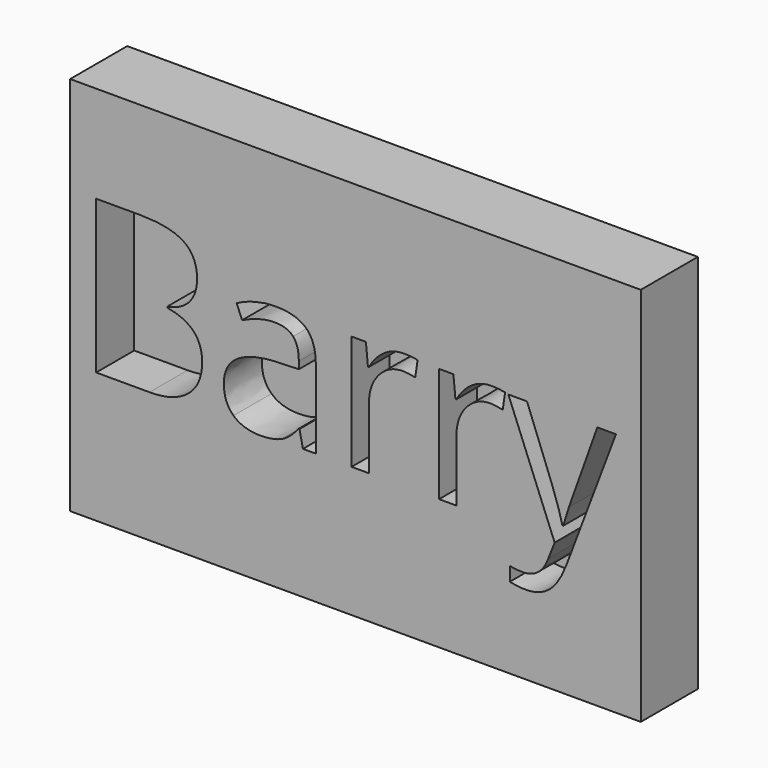
from build123d import *

# Parameters (mm, degrees)
F0_W     = 152.4
F0_H     = 101.6
F1_DEPTH = 6.35
F2_W     = 152.4
F2_H     = 101.6
F3_DEPTH = 12.7


with BuildPart() as f1:
    # F0 (on Front) → F1 (new body)
    with BuildSketch(Plane.XZ):
        with Locations((-73.2831337214, 78.9085992667)):
            Rectangle(F0_W, F0_H)
    extrude(amount=F1_DEPTH)

    # F2 (on face) → F3 (join)
    with BuildSketch(Plane.XZ.offset(6.35)):
        with Locations((-73.2831337214, 78.9085992667)):
            Rectangle(F2_W, F2_H)
        with BuildLine():
            Line((-83.8709204292, 62.9637678441), (-87.3141177383, 62.9637678441))
            Line((-87.3141177383, 62.9637678441), (-88.2352848107, 67.3281322256))
            Line((-88.2352848107, 67.3281322256), (-88.4588690515, 67.3281322256))
            add(Edge.make_bspline(
                [(-88.4588690515, 67.3281322256), (-90.7483716779, 64.4483672034), (-93.0244592498, 63.4243513802)],
                knots=[0, 0, 0, 1, 1, 1], degree=2))
            add(Edge.make_bspline(
                [(-93.0244592498, 63.4243513802), (-95.3005468216, 62.4003355571), (-98.7169140219, 62.4003355571)],
                knots=[0, 0, 0, 1, 1, 1], degree=2))
            add(Edge.make_bspline(
                [(-98.7169140219, 62.4003355571), (-103.2690891657, 62.4003355571), (-105.85372299, 64.7524417709)],
                knots=[0, 0, 0, 1, 1, 1], degree=2))
            add(Edge.make_bspline(
                [(-105.85372299, 64.7524417709), (-108.4383568142, 67.1045479847), (-108.4383568142, 71.4331388876)],
                knots=[0, 0, 0, 1, 1, 1], degree=2))
            add(Edge.make_bspline(
                [(-108.4383568142, 71.4331388876), (-108.4383568142, 80.7074131983), (-93.6013065912, 81.15458168)],
                knots=[0, 0, 0, 1, 1, 1], degree=2))
            Line((-93.6013065912, 81.15458168), (-88.4052088337, 81.324505703))
            Line((-88.4052088337, 81.324505703), (-88.4052088337, 83.2294434351))
            add(Edge.make_bspline(
                [(-88.4052088337, 83.2294434351), (-88.4052088337, 86.8336213977), (-89.9524117804, 88.5507483674)],
                knots=[0, 0, 0, 1, 1, 1], degree=2))
            add(Edge.make_bspline(
                [(-89.9524117804, 88.5507483674), (-91.4996147271, 90.2678753372), (-94.9159819274, 90.2678753372)],
                knots=[0, 0, 0, 1, 1, 1], degree=2))
            add(Edge.make_bspline(
                [(-94.9159819274, 90.2678753372), (-98.7437441308, 90.2678753372), (-103.5731637332, 87.924712493)],
                knots=[0, 0, 0, 1, 1, 1], degree=2))
            Line((-103.5731637332, 87.924712493), (-105.0041028747, 91.4752302378))
            add(Edge.make_bspline(
                [(-105.0041028747, 91.4752302378), (-102.7414303573, 92.7004718777), (-100.0450044126, 93.3980547091)],
                knots=[0, 0, 0, 1, 1, 1], degree=2))
            add(Edge.make_bspline(
                [(-100.0450044126, 93.3980547091), (-97.3485784679, 94.0956375406), (-94.6297940991, 94.0956375406)],
                knots=[0, 0, 0, 1, 1, 1], degree=2))
            add(Edge.make_bspline(
                [(-94.6297940991, 94.0956375406), (-89.156451883, 94.0956375406), (-86.5136861561, 91.6675126849)],
                knots=[0, 0, 0, 1, 1, 1], degree=2))
            add(Edge.make_bspline(
                [(-86.5136861561, 91.6675126849), (-83.8709204292, 89.2393878293), (-83.8709204292, 83.8733660488)],
                knots=[0, 0, 0, 1, 1, 1], degree=2))
            Line((-83.8709204292, 83.8733660488), (-83.8709204292, 62.9637678441))
        make_face(mode=Mode.SUBTRACT)
        with BuildLine():
            add(Edge.make_bspline(
                [(-65.6264463755, 92.5350195394), (-63.2206799439, 94.158241128), (-60.3409149217, 94.158241128)],
                knots=[0, 0, 0, 1, 1, 1], degree=2))
            add(Edge.make_bspline(
                [(-60.3409149217, 94.158241128), (-58.3018266451, 94.158241128), (-56.6830767413, 93.818393082)],
                knots=[0, 0, 0, 1, 1, 1], degree=2))
            Line((-56.6830767413, 93.818393082), (-57.326999355, 89.5166322879))
            add(Edge.make_bspline(
                [(-57.326999355, 89.5166322879), (-59.2229937174, 89.9369706607), (-60.6807629678, 89.9369706607)],
                knots=[0, 0, 0, 1, 1, 1], degree=2))
            add(Edge.make_bspline(
                [(-60.6807629678, 89.9369706607), (-64.4012047356, 89.9369706607), (-67.0394987777, 86.9185834092)],
                knots=[0, 0, 0, 1, 1, 1], degree=2))
            add(Edge.make_bspline(
                [(-67.0394987777, 86.9185834092), (-69.6777928198, 83.9001961577), (-69.6777928198, 79.4016812317)],
                knots=[0, 0, 0, 1, 1, 1], degree=2))
            Line((-69.6777928198, 79.4016812317), (-69.6777928198, 62.9637678441))
            Line((-69.6777928198, 62.9637678441), (-74.3194016599, 62.9637678441))
            Line((-74.3194016599, 62.9637678441), (-74.3194016599, 93.5948088411))
            Line((-74.3194016599, 93.5948088411), (-70.4916394565, 93.5948088411))
            Line((-70.4916394565, 93.5948088411), (-69.9550372784, 87.924712493))
            Line((-69.9550372784, 87.924712493), (-69.7314530376, 87.924712493))
            add(Edge.make_bspline(
                [(-69.7314530376, 87.924712493), (-68.0322128071, 90.9117979508), (-65.6264463755, 92.5350195394)],
                knots=[0, 0, 0, 1, 1, 1], degree=2))
        make_face(mode=Mode.SUBTRACT)
        with BuildLine():
            add(Edge.make_bspline(
                [(-42.2574215214, 92.5350195394), (-39.8516550898, 94.158241128), (-36.9718900676, 94.158241128)],
                knots=[0, 0, 0, 1, 1, 1], degree=2))
            add(Edge.make_bspline(
                [(-36.9718900676, 94.158241128), (-34.932801791, 94.158241128), (-33.3140518873, 93.818393082)],
                knots=[0, 0, 0, 1, 1, 1], degree=2))
            Line((-33.3140518873, 93.818393082), (-33.9579745009, 89.5166322879))
            add(Edge.make_bspline(
                [(-33.9579745009, 89.5166322879), (-35.8539688634, 89.9369706607), (-37.3117381137, 89.9369706607)],
                knots=[0, 0, 0, 1, 1, 1], degree=2))
            add(Edge.make_bspline(
                [(-37.3117381137, 89.9369706607), (-41.0321798815, 89.9369706607), (-43.6704739236, 86.9185834092)],
                knots=[0, 0, 0, 1, 1, 1], degree=2))
            add(Edge.make_bspline(
                [(-43.6704739236, 86.9185834092), (-46.3087679657, 83.9001961577), (-46.3087679657, 79.4016812317)],
                knots=[0, 0, 0, 1, 1, 1], degree=2))
            Line((-46.3087679657, 79.4016812317), (-46.3087679657, 62.9637678441))
            Line((-46.3087679657, 62.9637678441), (-50.9503768058, 62.9637678441))
            Line((-50.9503768058, 62.9637678441), (-50.9503768058, 93.5948088411))
            Line((-50.9503768058, 93.5948088411), (-47.1226146024, 93.5948088411))
            Line((-47.1226146024, 93.5948088411), (-46.5860124244, 87.924712493))
            Line((-46.5860124244, 87.924712493), (-46.3624281835, 87.924712493))
            add(Edge.make_bspline(
                [(-46.3624281835, 87.924712493), (-44.663187953, 90.9117979508), (-42.2574215214, 92.5350195394)],
                knots=[0, 0, 0, 1, 1, 1], degree=2))
        make_face(mode=Mode.SUBTRACT)
        with BuildLine():
            Line((-20.0868081983, 62.793843821), (-32.4465450327, 93.5948088411))
            Line((-32.4465450327, 93.5948088411), (-27.4650881465, 93.5948088411))
            Line((-27.4650881465, 93.5948088411), (-20.7575609209, 76.1284079456))
            add(Edge.make_bspline(
                [(-20.7575609209, 76.1284079456), (-18.5574919909, 70.1452936603), (-18.0208898128, 67.489112879)],
                knots=[0, 0, 0, 1, 1, 1], degree=2))
            Line((-18.0208898128, 67.489112879), (-17.797305572, 67.489112879))
            add(Edge.make_bspline(
                [(-17.797305572, 67.489112879), (-17.4395707866, 68.9200520204), (-16.2769327342, 72.3721926992)],
                knots=[0, 0, 0, 1, 1, 1], degree=2))
            add(Edge.make_bspline(
                [(-16.2769327342, 72.3721926992), (-15.1142946817, 75.824333378), (-8.6840119148, 93.5948088411)],
                knots=[0, 0, 0, 1, 1, 1], degree=2))
            Line((-8.6840119148, 93.5948088411), (-3.7114983982, 93.5948088411))
            Line((-3.7114983982, 93.5948088411), (-16.8761384997, 58.7156672679))
            add(Edge.make_bspline(
                [(-16.8761384997, 58.7156672679), (-18.8347364495, 53.5463996193), (-21.4462003827, 51.377632483)],
                knots=[0, 0, 0, 1, 1, 1], degree=2))
            add(Edge.make_bspline(
                [(-21.4462003827, 51.377632483), (-24.0576643159, 49.2088653467), (-27.8585964104, 49.2088653467)],
                knots=[0, 0, 0, 1, 1, 1], degree=2))
            add(Edge.make_bspline(
                [(-27.8585964104, 49.2088653467), (-29.9871183834, 49.2088653467), (-32.0530367688, 49.691807307)],
                knots=[0, 0, 0, 1, 1, 1], degree=2))
            Line((-32.0530367688, 49.691807307), (-32.0530367688, 53.4033057052))
            add(Edge.make_bspline(
                [(-32.0530367688, 53.4033057052), (-30.5147771918, 53.0724010287), (-28.6187828293, 53.0724010287)],
                knots=[0, 0, 0, 1, 1, 1], degree=2))
            add(Edge.make_bspline(
                [(-28.6187828293, 53.0724010287), (-23.834080075, 53.0724010287), (-21.7949917985, 58.4384228092)],
                knots=[0, 0, 0, 1, 1, 1], degree=2))
            Line((-21.7949917985, 58.4384228092), (-20.0868081983, 62.793843821))
        make_face(mode=Mode.SUBTRACT)
        with BuildLine():
            Line((-142.5394252293, 62.9637678441), (-142.5394252293, 103.8260237026))
            Line((-142.5394252293, 103.8260237026), (-130.9935350316, 103.8260237026))
            add(Edge.make_bspline(
                [(-130.9935350316, 103.8260237026), (-122.8640120341, 103.8260237026), (-119.2285322779, 101.3934271621)],
                knots=[0, 0, 0, 1, 1, 1], degree=2))
            add(Edge.make_bspline(
                [(-119.2285322779, 101.3934271621), (-115.5930525216, 98.9608306216), (-115.5930525216, 93.7110726463)],
                knots=[0, 0, 0, 1, 1, 1], degree=2))
            add(Edge.make_bspline(
                [(-115.5930525216, 93.7110726463), (-115.5930525216, 90.0711212052), (-117.6187257437, 87.7100716218)],
                knots=[0, 0, 0, 1, 1, 1], degree=2))
            add(Edge.make_bspline(
                [(-117.6187257437, 87.7100716218), (-119.6443989658, 85.3490220384), (-123.5347647567, 84.6514392069)],
                knots=[0, 0, 0, 1, 1, 1], degree=2))
            Line((-123.5347647567, 84.6514392069), (-123.5347647567, 84.3741947483))
            add(Edge.make_bspline(
                [(-123.5347647567, 84.3741947483), (-114.2247169675, 82.7822749534), (-114.2247169675, 74.5901483685)],
                knots=[0, 0, 0, 1, 1, 1], degree=2))
            add(Edge.make_bspline(
                [(-114.2247169675, 74.5901483685), (-114.2247169675, 69.1168061524), (-117.9272719961, 66.0402869982)],
                knots=[0, 0, 0, 1, 1, 1], degree=2))
            add(Edge.make_bspline(
                [(-117.9272719961, 66.0402869982), (-121.6298270246, 62.9637678441), (-128.2836940324, 62.9637678441)],
                knots=[0, 0, 0, 1, 1, 1], degree=2))
            Line((-128.2836940324, 62.9637678441), (-142.5394252293, 62.9637678441))
        make_face(mode=Mode.SUBTRACT)
    extrude(amount=F3_DEPTH)


solid = f1.part
